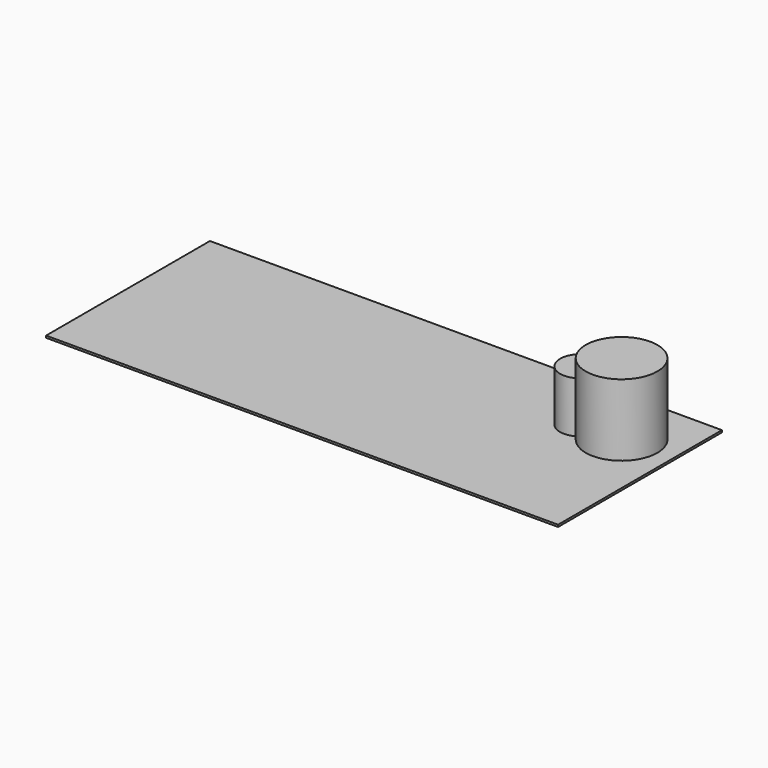
from build123d import *

# Parameters (mm, degrees)
F0_W     = 127
F0_H     = 50.8
F1_DEPTH = 0.508
F3_DEPTH = 12.7
F5_DEPTH = 5.08


with BuildPart() as f1:
    # F0 (on Top) → F1 (new body)
    with BuildSketch(Plane.XY):
        with Locations((-63.5, -25.4)):
            Rectangle(F0_W, F0_H)
    extrude(amount=F1_DEPTH)

    # F2 (on face) → F3 (join)
    with BuildSketch(Plane.XY.offset(0.508)):
        with BuildLine():
            ThreePointArc((-20.399375, -19.6842912381), (-10.3994939415, -23.8271864935), (-3.81, -15.24))
            ThreePointArc((-3.81, -15.24), (-10.3994939415, -6.6528135065), (-20.399375, -10.7957087619))
            ThreePointArc((-20.399375, -10.7957087619), (-18.4835645212, -12.6606178065), (-17.78, -15.24))
            ThreePointArc((-17.78, -15.24), (-18.4835645212, -17.8193821935), (-20.399375, -19.6842912381))
        make_face()
        with BuildLine():
            ThreePointArc((-17.78, -15.24), (-18.4835645212, -12.6606178065), (-20.399375, -10.7957087619))
            ThreePointArc((-20.399375, -10.7957087619), (-21.59, -15.24), (-20.399375, -19.6842912381))
            ThreePointArc((-20.399375, -19.6842912381), (-18.4835645212, -17.8193821935), (-17.78, -15.24))
        make_face()
        with BuildLine():
            ThreePointArc((-20.399375, -19.6842912381), (-21.59, -15.24), (-20.399375, -10.7957087619))
            ThreePointArc((-20.399375, -10.7957087619), (-27.94, -15.24), (-20.399375, -19.6842912381))
        make_face()
    extrude(amount=F3_DEPTH)

    # F4 (on face) → F5 (join)
    with BuildSketch(Plane.XY.offset(13.208)):
        with BuildLine():
            ThreePointArc((-20.399375, -19.6842912381), (-10.3994939415, -23.8271864935), (-3.81, -15.24))
            ThreePointArc((-3.81, -15.24), (-10.3994939415, -6.6528135065), (-20.399375, -10.7957087619))
            ThreePointArc((-20.399375, -10.7957087619), (-21.59, -15.24), (-20.399375, -19.6842912381))
        make_face()
    extrude(amount=F5_DEPTH)


solid = f1.part
